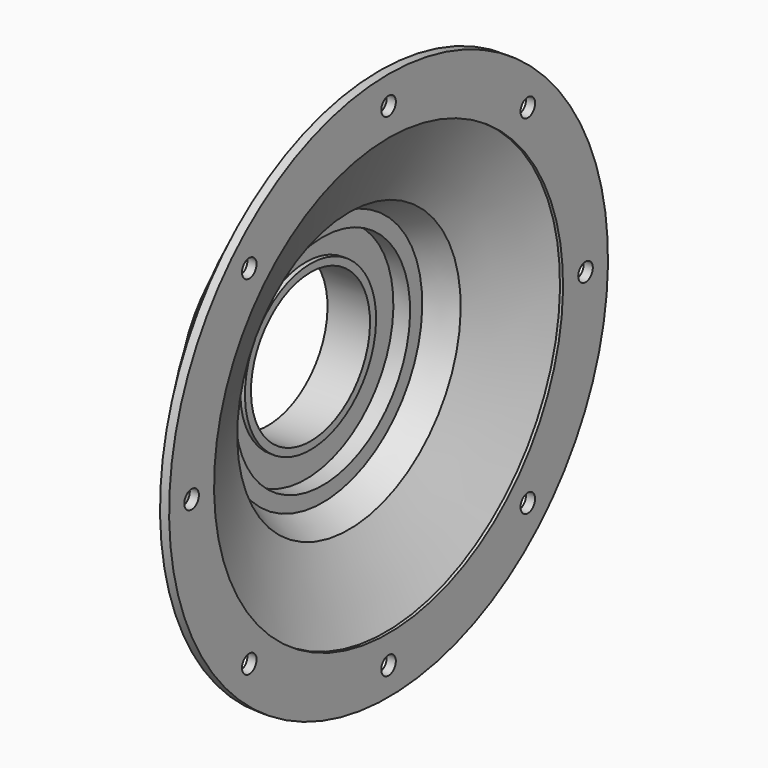
from build123d import *

# Parameters (mm, degrees)
F3_D = 20.16


with BuildPart() as f1:
    # F0 (on Front) → F1 (revolve)
    with BuildSketch(Plane.XZ):
        Polygon((0, 90.72), (0, 82.32), (47.04, 82.32), (47.04, 90.72), (42, 90.72), (42, 120.96), (60.48, 120.96), (60.48, 137.76), (89.578454, 154.56), (130.048378, 241.348034), (133.408378, 241.348034), (133.408378, 258.148034), (133.408378, 303.508034), (123.328378, 303.508034), (123.328378, 249.748034), (86.368378, 249.748034), (98.830623, 239.290969), (63.236907, 162.96), (5.04, 129.36), (5.04, 90.72), align=None)
    revolve(axis=Axis((0, 0, 0), (1, 0, 0)))

    # F3 (through all)
    with Locations(Plane.YZ.offset(133.408378)):
        with Locations((0, 272.428034), (-192.63571, 192.63571), (-272.428034, 0), (192.63571, 192.63571), (272.428034, 0), (-192.63571, -192.63571), (0, -272.428034), (192.63571, -192.63571)):
            Hole(F3_D / 2)


solid = f1.part
